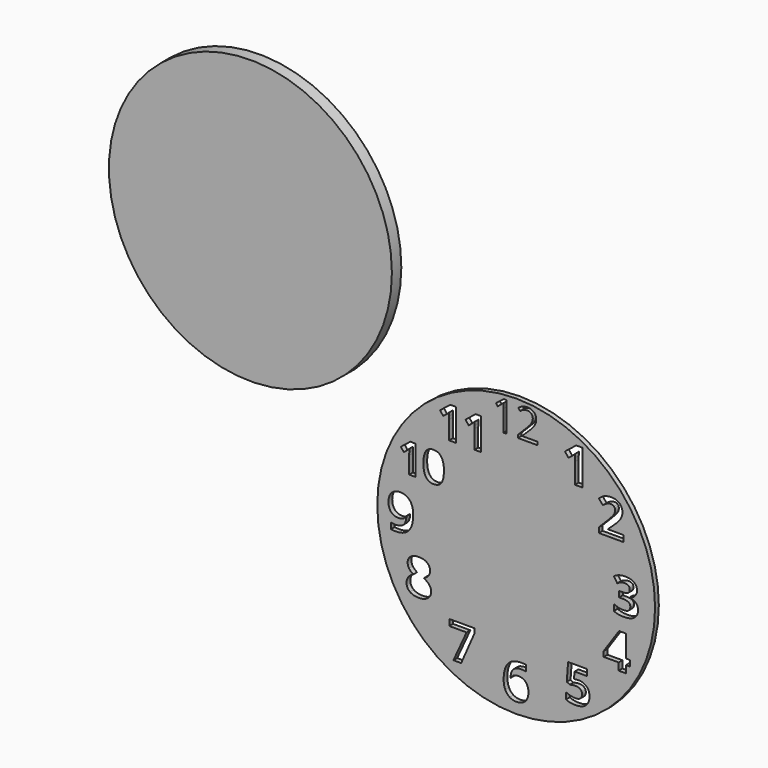
from build123d import *

# Parameters (mm, degrees)
F0_R     = 74.803
F1_DEPTH = 2.54
F2_R     = 76.2
F3_DEPTH = 6.35


with BuildPart() as f1:
    # F0 (on Front) → F1 (new body)
    with BuildSketch(Plane.XZ):
        Circle(F0_R)
        with BuildLine():
            add(Edge.make_bspline(
                [(-5.8910233776, -65.163271449), (-6.7364498098, -63.3029198865), (-6.7364498098, -60.6777571261)],
                knots=[0, 0, 0, 1, 1, 1], degree=2))
            add(Edge.make_bspline(
                [(-6.7364498098, -60.6777571261), (-6.7364498098, -55.0718977511), (-4.3655350963, -52.3330468396)],
                knots=[0, 0, 0, 1, 1, 1], degree=2))
            add(Edge.make_bspline(
                [(-4.3655350963, -52.3330468396), (-1.9946203828, -49.5941959282), (2.7348067006, -49.5941959282)],
                knots=[0, 0, 0, 1, 1, 1], degree=2))
            add(Edge.make_bspline(
                [(2.7348067006, -49.5941959282), (4.3471113881, -49.5941959282), (5.2648848256, -49.7884993136)],
                knots=[0, 0, 0, 1, 1, 1], degree=2))
            Line((5.2648848256, -49.7884993136), (5.2648848256, -52.9800357719))
            add(Edge.make_bspline(
                [(5.2648848256, -52.9800357719), (4.1156009714, -52.7195865532), (2.9911218047, -52.7195865532)],
                knots=[0, 0, 0, 1, 1, 1], degree=2))
            add(Edge.make_bspline(
                [(2.9911218047, -52.7195865532), (0.9364668568, -52.7195865532), (-0.3616451223, -53.3397037407)],
                knots=[0, 0, 0, 1, 1, 1], degree=2))
            add(Edge.make_bspline(
                [(-0.3616451223, -53.3397037407), (-1.6597571015, -53.9598209282), (-2.3046789765, -55.1752506157)],
                knots=[0, 0, 0, 1, 1, 1], degree=2))
            add(Edge.make_bspline(
                [(-2.3046789765, -55.1752506157), (-2.9496008515, -56.3906803032), (-3.0653560598, -58.6231021782)],
                knots=[0, 0, 0, 1, 1, 1], degree=2))
            Line((-3.0653560598, -58.6231021782), (-2.8999914765, -58.6231021782))
            add(Edge.make_bspline(
                [(-2.8999914765, -58.6231021782), (-1.6184159557, -56.4278873344), (1.1969160756, -56.4278873344)],
                knots=[0, 0, 0, 1, 1, 1], degree=2))
            add(Edge.make_bspline(
                [(1.1969160756, -56.4278873344), (3.7269942006, -56.4278873344), (5.161531961, -58.0174543917)],
                knots=[0, 0, 0, 1, 1, 1], degree=2))
            add(Edge.make_bspline(
                [(5.161531961, -58.0174543917), (6.5960697214, -59.607021449), (6.5960697214, -62.4099511365)],
                knots=[0, 0, 0, 1, 1, 1], degree=2))
            add(Edge.make_bspline(
                [(6.5960697214, -62.4099511365), (6.5960697214, -65.4319888969), (4.8907474558, -67.197255824)],
                knots=[0, 0, 0, 1, 1, 1], degree=2))
            add(Edge.make_bspline(
                [(4.8907474558, -67.197255824), (3.1854251902, -68.9625227511), (0.1633874297, -68.9625227511)],
                knots=[0, 0, 0, 1, 1, 1], degree=2))
            add(Edge.make_bspline(
                [(0.1633874297, -68.9625227511), (-1.9284745494, -68.9625227511), (-3.4870357473, -67.9930728813)],
                knots=[0, 0, 0, 1, 1, 1], degree=2))
            add(Edge.make_bspline(
                [(-3.4870357473, -67.9930728813), (-5.0455969453, -67.0236230115), (-5.8910233776, -65.163271449)],
                knots=[0, 0, 0, 1, 1, 1], degree=2))
        make_face(mode=Mode.SUBTRACT)
        Polygon((-29.6186864605, -60.3199785084), (-33.8065445334, -60.3199785084), (-26.7124039084, -44.8170488209), (-36.0265640646, -44.8170488209), (-36.0265640646, -41.4560136646), (-22.4749364605, -41.4560136646), (-22.4749364605, -43.9654212167), align=None, mode=Mode.SUBTRACT)
        with BuildLine():
            add(Edge.make_bspline(
                [(-56.7709693159, -18.6496255924), (-55.092518795, -17.3969888737), (-52.3929419721, -17.3969888737)],
                knots=[0, 0, 0, 1, 1, 1], degree=2))
            add(Edge.make_bspline(
                [(-52.3929419721, -17.3969888737), (-49.6768286909, -17.3969888737), (-48.0169816856, -18.6310220768)],
                knots=[0, 0, 0, 1, 1, 1], degree=2))
            add(Edge.make_bspline(
                [(-48.0169816856, -18.6310220768), (-46.3571346804, -19.8650552799), (-46.3571346804, -21.9569172591)],
                knots=[0, 0, 0, 1, 1, 1], degree=2))
            add(Edge.make_bspline(
                [(-46.3571346804, -21.9569172591), (-46.3571346804, -23.4038573633), (-47.1591529096, -24.5345377018)],
                knots=[0, 0, 0, 1, 1, 1], degree=2))
            add(Edge.make_bspline(
                [(-47.1591529096, -24.5345377018), (-47.9611711388, -25.6652180403), (-49.7429745242, -26.5540526758)],
                knots=[0, 0, 0, 1, 1, 1], degree=2))
            add(Edge.make_bspline(
                [(-49.7429745242, -26.5540526758), (-47.6263078575, -27.6909341862), (-46.7023332481, -28.9249673893)],
                knots=[0, 0, 0, 1, 1, 1], degree=2))
            add(Edge.make_bspline(
                [(-46.7023332481, -28.9249673893), (-45.7783586388, -30.1590005924), (-45.7783586388, -31.6348794987)],
                knots=[0, 0, 0, 1, 1, 1], degree=2))
            add(Edge.make_bspline(
                [(-45.7783586388, -31.6348794987), (-45.7783586388, -33.9582518945), (-47.5994361127, -35.3741861393)],
                knots=[0, 0, 0, 1, 1, 1], degree=2))
            add(Edge.make_bspline(
                [(-47.5994361127, -35.3741861393), (-49.4205135867, -36.7901203841), (-52.3929419721, -36.7901203841)],
                knots=[0, 0, 0, 1, 1, 1], degree=2))
            add(Edge.make_bspline(
                [(-52.3929419721, -36.7901203841), (-55.4935279096, -36.7901203841), (-57.2629289513, -35.471337832)],
                knots=[0, 0, 0, 1, 1, 1], degree=2))
            add(Edge.make_bspline(
                [(-57.2629289513, -35.471337832), (-59.0323299929, -34.1525552799), (-59.0323299929, -31.7382323633)],
                knots=[0, 0, 0, 1, 1, 1], degree=2))
            add(Edge.make_bspline(
                [(-59.0323299929, -31.7382323633), (-59.0323299929, -30.1217935612), (-58.1724341596, -28.8691568424)],
                knots=[0, 0, 0, 1, 1, 1], degree=2))
            add(Edge.make_bspline(
                [(-58.1724341596, -28.8691568424), (-57.3125383263, -27.6165201237), (-55.4149797325, -26.6574055403)],
                knots=[0, 0, 0, 1, 1, 1], degree=2))
            add(Edge.make_bspline(
                [(-55.4149797325, -26.6574055403), (-57.0314185346, -25.6404133528), (-57.7404191856, -24.4766600976)],
                knots=[0, 0, 0, 1, 1, 1], degree=2))
            add(Edge.make_bspline(
                [(-57.7404191856, -24.4766600976), (-58.4494198367, -23.3129068424), (-58.4494198367, -21.9321125716)],
                knots=[0, 0, 0, 1, 1, 1], degree=2))
            add(Edge.make_bspline(
                [(-58.4494198367, -21.9321125716), (-58.4494198367, -19.9022623112), (-56.7709693159, -18.6496255924)],
                knots=[0, 0, 0, 1, 1, 1], degree=2))
        make_face(mode=Mode.SUBTRACT)
        with BuildLine():
            add(Edge.make_bspline(
                [(31.5615842875, -48.0537042151), (32.3512001729, -47.8718031734), (33.5128863708, -47.8718031734)],
                knots=[0, 0, 0, 1, 1, 1], degree=2))
            add(Edge.make_bspline(
                [(33.5128863708, -47.8718031734), (36.249670225, -47.8718031734), (37.872310199, -49.4096937984)],
                knots=[0, 0, 0, 1, 1, 1], degree=2))
            add(Edge.make_bspline(
                [(37.872310199, -49.4096937984), (39.4949501729, -50.9475844234), (39.4949501729, -53.6223565588)],
                knots=[0, 0, 0, 1, 1, 1], degree=2))
            add(Edge.make_bspline(
                [(39.4949501729, -53.6223565588), (39.4949501729, -56.7849542151), (37.5436480896, -58.492343538)],
                knots=[0, 0, 0, 1, 1, 1], degree=2))
            add(Edge.make_bspline(
                [(37.5436480896, -58.492343538), (35.5923460062, -60.1997328609), (31.9625934021, -60.1997328609)],
                knots=[0, 0, 0, 1, 1, 1], degree=2))
            add(Edge.make_bspline(
                [(31.9625934021, -60.1997328609), (28.808263975, -60.1997328609), (26.87349835, -59.1786065588)],
                knots=[0, 0, 0, 1, 1, 1], degree=2))
            Line((26.87349835, -59.1786065588), (26.87349835, -55.7266208818))
            add(Edge.make_bspline(
                [(26.87349835, -55.7266208818), (27.8904905375, -56.2681898922), (29.2485471781, -56.6113214026)],
                knots=[0, 0, 0, 1, 1, 1], degree=2))
            add(Edge.make_bspline(
                [(29.2485471781, -56.6113214026), (30.6066038187, -56.954452913), (31.8178993917, -56.954452913)],
                knots=[0, 0, 0, 1, 1, 1], degree=2))
            add(Edge.make_bspline(
                [(31.8178993917, -56.954452913), (35.4765907979, -56.954452913), (35.4765907979, -53.9572198401)],
                knots=[0, 0, 0, 1, 1, 1], degree=2))
            add(Edge.make_bspline(
                [(35.4765907979, -53.9572198401), (35.4765907979, -51.100546663), (31.6897418396, -51.100546663)],
                knots=[0, 0, 0, 1, 1, 1], degree=2))
            add(Edge.make_bspline(
                [(31.6897418396, -51.100546663), (31.0076129333, -51.100546663), (30.1807900167, -51.2369724443)],
                knots=[0, 0, 0, 1, 1, 1], degree=2))
            add(Edge.make_bspline(
                [(30.1807900167, -51.2369724443), (29.3539671, -51.3733982255), (28.8372027771, -51.5304945797)],
                knots=[0, 0, 0, 1, 1, 1], degree=2))
            Line((28.8372027771, -51.5304945797), (27.2455686625, -50.6747328609))
            Line((27.2455686625, -50.6747328609), (27.9566363708, -41.0505141109))
            Line((27.9566363708, -41.0505141109), (38.2009723083, -41.0505141109))
            Line((38.2009723083, -41.0505141109), (38.2009723083, -44.4363539547))
            Line((38.2009723083, -44.4363539547), (31.4582314229, -44.4363539547))
            Line((31.4582314229, -44.4363539547), (31.1109657979, -48.1446547359))
            Line((31.1109657979, -48.1446547359), (31.5615842875, -48.0537042151))
        make_face(mode=Mode.SUBTRACT)
        Polygon((61.3668119221, -29.3046950509), (61.3668119221, -32.4052809884), (59.0930489012, -32.4052809884), (59.0930489012, -36.3202874988), (55.1904447346, -36.3202874988), (55.1904447346, -32.4052809884), (47.1289212971, -32.4052809884), (47.1289212971, -29.6271559884), (55.4136869221, -17.4315179676), (59.0930489012, -17.4315179676), (59.0930489012, -29.3046950509), align=None, mode=Mode.SUBTRACT)
        with BuildLine():
            add(Edge.make_bspline(
                [(63.3809398117, 8.2961543386), (65.0800609055, 7.1075963959), (65.0800609055, 4.9909297292)],
                knots=[0, 0, 0, 1, 1, 1], degree=2))
            add(Edge.make_bspline(
                [(65.0800609055, 4.9909297292), (65.0800609055, 3.2215286876), (64.0072581711, 1.9812943126)],
                knots=[0, 0, 0, 1, 1, 1], degree=2))
            add(Edge.make_bspline(
                [(64.0072581711, 1.9812943126), (62.9344554367, 0.7410599376), (60.9955556972, 0.2739049897)],
                knots=[0, 0, 0, 1, 1, 1], degree=2))
            Line((60.9955556972, 0.2739049897), (60.9955556972, 0.1994909272))
            add(Edge.make_bspline(
                [(60.9955556972, 0.1994909272), (63.2858551763, -0.0857629791), (64.459943718, -1.1916386301)],
                knots=[0, 0, 0, 1, 1, 1], degree=2))
            add(Edge.make_bspline(
                [(64.459943718, -1.1916386301), (65.6340322597, -2.2975142812), (65.6340322597, -4.1702681874)],
                knots=[0, 0, 0, 1, 1, 1], degree=2))
            add(Edge.make_bspline(
                [(65.6340322597, -4.1702681874), (65.6340322597, -6.8946496978), (63.6579254888, -8.4139368072)],
                knots=[0, 0, 0, 1, 1, 1], degree=2))
            add(Edge.make_bspline(
                [(63.6579254888, -8.4139368072), (61.681818718, -9.9332239166), (58.0148590826, -9.9332239166)],
                knots=[0, 0, 0, 1, 1, 1], degree=2))
            add(Edge.make_bspline(
                [(58.0148590826, -9.9332239166), (54.9390778326, -9.9332239166), (52.5619619472, -8.9120976145)],
                knots=[0, 0, 0, 1, 1, 1], degree=2))
            Line((52.5619619472, -8.9120976145), (52.5619619472, -5.513855427))
            add(Edge.make_bspline(
                [(52.5619619472, -5.513855427), (53.6575023117, -6.0678267812), (54.9762848638, -6.4171594635)],
                knots=[0, 0, 0, 1, 1, 1], degree=2))
            add(Edge.make_bspline(
                [(54.9762848638, -6.4171594635), (56.2950674159, -6.7664921458), (57.5849111659, -6.7664921458)],
                knots=[0, 0, 0, 1, 1, 1], degree=2))
            add(Edge.make_bspline(
                [(57.5849111659, -6.7664921458), (59.5651520513, -6.7664921458), (60.5077301763, -6.094698526)],
                knots=[0, 0, 0, 1, 1, 1], degree=2))
            add(Edge.make_bspline(
                [(60.5077301763, -6.094698526), (61.4503083013, -5.4229049062), (61.4503083013, -3.9346236562)],
                knots=[0, 0, 0, 1, 1, 1], degree=2))
            add(Edge.make_bspline(
                [(61.4503083013, -3.9346236562), (61.4503083013, -2.6075728749), (60.3651032232, -2.0515344635)],
                knots=[0, 0, 0, 1, 1, 1], degree=2))
            add(Edge.make_bspline(
                [(60.3651032232, -2.0515344635), (59.2798981451, -1.495496052), (56.9027822597, -1.495496052)],
                knots=[0, 0, 0, 1, 1, 1], degree=2))
            Line((56.9027822597, -1.495496052), (55.4682444992, -1.495496052))
            Line((55.4682444992, -1.495496052), (55.4682444992, 1.5678828542))
            Line((55.4682444992, 1.5678828542), (56.9275869472, 1.5678828542))
            add(Edge.make_bspline(
                [(56.9275869472, 1.5678828542), (59.1228017909, 1.5678828542), (60.1377269211, 2.1425247813)],
                knots=[0, 0, 0, 1, 1, 1], degree=2))
            add(Edge.make_bspline(
                [(60.1377269211, 2.1425247813), (61.1526520513, 2.7171667084), (61.1526520513, 4.110363323)],
                knots=[0, 0, 0, 1, 1, 1], degree=2))
            add(Edge.make_bspline(
                [(61.1526520513, 4.110363323), (61.1526520513, 6.2559687917), (58.4654775722, 6.2559687917)],
                knots=[0, 0, 0, 1, 1, 1], degree=2))
            add(Edge.make_bspline(
                [(58.4654775722, 6.2559687917), (57.5353017909, 6.2559687917), (56.572053093, 5.945910198)],
                knots=[0, 0, 0, 1, 1, 1], degree=2))
            add(Edge.make_bspline(
                [(56.572053093, 5.945910198), (55.6088043951, 5.6358516042), (54.4347158534, 4.8751745209)],
                knots=[0, 0, 0, 1, 1, 1], degree=2))
            Line((54.4347158534, 4.8751745209), (52.5867666347, 7.6243607188))
            add(Edge.make_bspline(
                [(52.5867666347, 7.6243607188), (55.1705882492, 9.4847122813), (58.7507314784, 9.4847122813)],
                knots=[0, 0, 0, 1, 1, 1], degree=2))
            add(Edge.make_bspline(
                [(58.7507314784, 9.4847122813), (61.681818718, 9.4847122813), (63.3809398117, 8.2961543386)],
                knots=[0, 0, 0, 1, 1, 1], degree=2))
        make_face(mode=Mode.SUBTRACT)
        with BuildLine():
            add(Edge.make_bspline(
                [(-56.2820821305, 6.2179759083), (-55.4428568701, 4.3514231739), (-55.4428568701, 1.7676015593)],
                knots=[0, 0, 0, 1, 1, 1], degree=2))
            add(Edge.make_bspline(
                [(-55.4428568701, 1.7676015593), (-55.4428568701, -3.8134531282), (-57.7931010108, -6.5667734407)],
                knots=[0, 0, 0, 1, 1, 1], degree=2))
            add(Edge.make_bspline(
                [(-57.7931010108, -6.5667734407), (-60.1433451514, -9.3200937532), (-64.909979266, -9.3200937532)],
                knots=[0, 0, 0, 1, 1, 1], degree=2))
            add(Edge.make_bspline(
                [(-64.909979266, -9.3200937532), (-66.5925639014, -9.3200937532), (-67.4565938493, -9.1381927115)],
                knots=[0, 0, 0, 1, 1, 1], degree=2))
            Line((-67.4565938493, -9.1381927115), (-67.4565938493, -5.9342539094))
            add(Edge.make_bspline(
                [(-67.4565938493, -5.9342539094), (-66.3693217139, -6.2029713574), (-65.1828308285, -6.2029713574)],
                knots=[0, 0, 0, 1, 1, 1], degree=2))
            add(Edge.make_bspline(
                [(-65.1828308285, -6.2029713574), (-63.1819193701, -6.2029713574), (-61.8900085628, -5.6159270865)],
                knots=[0, 0, 0, 1, 1, 1], degree=2))
            add(Edge.make_bspline(
                [(-61.8900085628, -5.6159270865), (-60.5980977555, -5.0288828157), (-59.9118347347, -3.7700449251)],
                knots=[0, 0, 0, 1, 1, 1], degree=2))
            add(Edge.make_bspline(
                [(-59.9118347347, -3.7700449251), (-59.2255717139, -2.5112070344), (-59.1222188493, -0.2994557324)],
                knots=[0, 0, 0, 1, 1, 1], degree=2))
            Line((-59.1222188493, -0.2994557324), (-59.2793152035, -0.2994557324))
            add(Edge.make_bspline(
                [(-59.2793152035, -0.2994557324), (-60.027589943, -1.5148854199), (-61.0094421566, -2.004777998)],
                knots=[0, 0, 0, 1, 1, 1], degree=2))
            add(Edge.make_bspline(
                [(-61.0094421566, -2.004777998), (-61.9912943701, -2.4946705761), (-63.4630391618, -2.4946705761)],
                knots=[0, 0, 0, 1, 1, 1], degree=2))
            add(Edge.make_bspline(
                [(-63.4630391618, -2.4946705761), (-65.931105568, -2.4946705761), (-67.3532409847, -0.913371748)],
                knots=[0, 0, 0, 1, 1, 1], degree=2))
            add(Edge.make_bspline(
                [(-67.3532409847, -0.913371748), (-68.7753764014, 0.6679270801), (-68.7753764014, 3.4832591114)],
                knots=[0, 0, 0, 1, 1, 1], degree=2))
            add(Edge.make_bspline(
                [(-68.7753764014, 3.4832591114), (-68.7753764014, 6.5218333301), (-67.0493835628, 8.2850331999)],
                knots=[0, 0, 0, 1, 1, 1], degree=2))
            add(Edge.make_bspline(
                [(-67.0493835628, 8.2850331999), (-65.3233907243, 10.0482330697), (-62.3550964535, 10.0482330697)],
                knots=[0, 0, 0, 1, 1, 1], degree=2))
            add(Edge.make_bspline(
                [(-62.3550964535, 10.0482330697), (-60.2591003597, 10.0482330697), (-58.6902038753, 9.0663808562)],
                knots=[0, 0, 0, 1, 1, 1], degree=2))
            add(Edge.make_bspline(
                [(-58.6902038753, 9.0663808562), (-57.121307391, 8.0845286426), (-56.2820821305, 6.2179759083)],
                knots=[0, 0, 0, 1, 1, 1], degree=2))
        make_face(mode=Mode.SUBTRACT)
        with BuildLine():
            Line((-54.2624322207, 35.7546802365), (-54.2624322207, 19.9230597782))
            Line((-54.2624322207, 19.9230597782), (-57.6096297175, 19.9230597782))
            Line((-57.6096297175, 19.9230597782), (-57.6096297175, 29.0845402973))
            Line((-57.6096297175, 29.0845402973), (-57.5749796399, 30.5883536654))
            Line((-57.5749796399, 30.5883536654), (-57.5230045234, 32.2342323517))
            add(Edge.make_bspline(
                [(-57.5230045234, 32.2342323517), (-58.354606386, 31.4026304891), (-58.6803171155, 31.1427549071)],
                knots=[0, 0, 0, 1, 1, 1], degree=2))
            Line((-58.6803171155, 31.1427549071), (-60.4994461898, 29.6805216321))
            Line((-60.4994461898, 29.6805216321), (-62.1141398063, 31.693691141))
            Line((-62.1141398063, 31.693691141), (-57.0136483826, 35.7546802365))
            Line((-57.0136483826, 35.7546802365), (-54.2624322207, 35.7546802365))
        make_face(mode=Mode.SUBTRACT)
        with BuildLine():
            add(Edge.make_bspline(
                [(-40.3001834493, 33.9251561389), (-38.8985878102, 31.8461514825), (-38.8985878102, 27.8371375035)],
                knots=[0, 0, 0, 1, 1, 1], degree=2))
            add(Edge.make_bspline(
                [(-38.8985878102, 27.8371375035), (-38.8985878102, 23.6929882218), (-40.2568708523, 21.6988762555)],
                knots=[0, 0, 0, 1, 1, 1], degree=2))
            add(Edge.make_bspline(
                [(-40.2568708523, 21.6988762555), (-41.6151538945, 19.7047642893), (-44.4426002271, 19.7047642893)],
                knots=[0, 0, 0, 1, 1, 1], degree=2))
            add(Edge.make_bspline(
                [(-44.4426002271, 19.7047642893), (-47.1834213658, 19.7047642893), (-48.5746219817, 21.7629788991)],
                knots=[0, 0, 0, 1, 1, 1], degree=2))
            add(Edge.make_bspline(
                [(-48.5746219817, 21.7629788991), (-49.9658225976, 23.8211935089), (-49.9658225976, 27.8371375035)],
                knots=[0, 0, 0, 1, 1, 1], degree=2))
            add(Edge.make_bspline(
                [(-49.9658225976, 27.8371375035), (-49.9658225976, 32.0297968938), (-48.6110045632, 34.0169788445)],
                knots=[0, 0, 0, 1, 1, 1], degree=2))
            add(Edge.make_bspline(
                [(-48.6110045632, 34.0169788445), (-47.2561865288, 36.0041607952), (-44.4426002271, 36.0041607952)],
                knots=[0, 0, 0, 1, 1, 1], degree=2))
            add(Edge.make_bspline(
                [(-44.4426002271, 36.0041607952), (-41.7017790885, 36.0041607952), (-40.3001834493, 33.9251561389)],
                knots=[0, 0, 0, 1, 1, 1], degree=2))
        make_face(mode=Mode.SUBTRACT)
        with BuildLine():
            Line((-32.5175068608, 60.2672196379), (-32.5175068608, 43.1619559062))
            Line((-32.5175068608, 43.1619559062), (-36.1339841566, 43.1619559062))
            Line((-36.1339841566, 43.1619559062), (-36.1339841566, 53.0604714034))
            Line((-36.1339841566, 53.0604714034), (-36.0965465035, 54.6852655508))
            Line((-36.0965465035, 54.6852655508), (-36.0403900237, 56.4635540762))
            add(Edge.make_bspline(
                [(-36.0403900237, 56.4635540762), (-36.9388936997, 55.5650504002), (-37.2908076395, 55.2842680015)],
                knots=[0, 0, 0, 1, 1, 1], degree=2))
            Line((-37.2908076395, 55.2842680015), (-39.2562844307, 53.7043990378))
            Line((-39.2562844307, 53.7043990378), (-41.0008790683, 55.8795266868))
            Line((-41.0008790683, 55.8795266868), (-35.4900565222, 60.2672196379))
            Line((-35.4900565222, 60.2672196379), (-32.5175068608, 60.2672196379))
        make_face(mode=Mode.SUBTRACT)
        with BuildLine():
            Line((-18.8415321591, 60.2672196379), (-18.8415321591, 43.1619559062))
            Line((-18.8415321591, 43.1619559062), (-22.4580094549, 43.1619559062))
            Line((-22.4580094549, 43.1619559062), (-22.4580094549, 53.0604714034))
            Line((-22.4580094549, 53.0604714034), (-22.4205718018, 54.6852655508))
            Line((-22.4205718018, 54.6852655508), (-22.364415322, 56.4635540762))
            add(Edge.make_bspline(
                [(-22.364415322, 56.4635540762), (-23.262918998, 55.5650504002), (-23.6148329378, 55.2842680015)],
                knots=[0, 0, 0, 1, 1, 1], degree=2))
            Line((-23.6148329378, 55.2842680015), (-25.580309729, 53.7043990378))
            Line((-25.580309729, 53.7043990378), (-27.3249043666, 55.8795266868))
            Line((-27.3249043666, 55.8795266868), (-21.8140818205, 60.2672196379))
            Line((-21.8140818205, 60.2672196379), (-18.8415321591, 60.2672196379))
        make_face(mode=Mode.SUBTRACT)
        with BuildLine():
            Line((-5.1132792741, 72.343459646), (-5.1132792741, 56.3526499244))
            Line((-5.1132792741, 56.3526499244), (-6.8842028283, 56.3526499244))
            Line((-6.8842028283, 56.3526499244), (-6.8842028283, 67.7481580123))
            add(Edge.make_bspline(
                [(-6.8842028283, 67.7481580123), (-6.8842028283, 69.1725965233), (-6.7967066053, 70.4395418328)],
                knots=[0, 0, 0, 1, 1, 1], degree=2))
            add(Edge.make_bspline(
                [(-6.7967066053, 70.4395418328), (-7.0241967851, 70.208551804), (-7.3094344722, 69.9583126061)],
                knots=[0, 0, 0, 1, 1, 1], degree=2))
            add(Edge.make_bspline(
                [(-7.3094344722, 69.9583126061), (-7.5946721593, 69.7080734082), (-9.9115721453, 67.8251546886)],
                knots=[0, 0, 0, 1, 1, 1], degree=2))
            Line((-9.9115721453, 67.8251546886), (-10.8740305986, 69.0711009046))
            Line((-10.8740305986, 69.0711009046), (-6.6427132527, 72.343459646))
            Line((-6.6427132527, 72.343459646), (-5.1132792741, 72.343459646))
        make_face(mode=Mode.SUBTRACT)
        with BuildLine():
            Line((57.7630547736, 28.8359935135), (57.7630547736, 25.4749583572))
            Line((57.7630547736, 25.4749583572), (44.5586927944, 25.4749583572))
            Line((44.5586927944, 25.4749583572), (44.5586927944, 28.2530833572))
            Line((44.5586927944, 28.2530833572), (49.3005222215, 33.0445221593))
            add(Edge.make_bspline(
                [(49.3005222215, 33.0445221593), (51.408920659, 35.2025299718), (52.053842534, 36.0355540603)],
                knots=[0, 0, 0, 1, 1, 1], degree=2))
            add(Edge.make_bspline(
                [(52.053842534, 36.0355540603), (52.698764409, 36.8685781489), (52.9840183153, 37.5796458572)],
                knots=[0, 0, 0, 1, 1, 1], degree=2))
            add(Edge.make_bspline(
                [(52.9840183153, 37.5796458572), (53.2692722215, 38.2907135655), (53.2692722215, 39.0513906489)],
                knots=[0, 0, 0, 1, 1, 1], degree=2))
            add(Edge.make_bspline(
                [(53.2692722215, 39.0513906489), (53.2692722215, 40.1882721593), (52.6408868048, 40.7443105708)],
                knots=[0, 0, 0, 1, 1, 1], degree=2))
            add(Edge.make_bspline(
                [(52.6408868048, 40.7443105708), (52.0125013882, 41.3003489822), (50.9665703986, 41.3003489822)],
                knots=[0, 0, 0, 1, 1, 1], degree=2))
            add(Edge.make_bspline(
                [(50.9665703986, 41.3003489822), (49.871030034, 41.3003489822), (48.8375013882, 40.795987003)],
                knots=[0, 0, 0, 1, 1, 1], degree=2))
            add(Edge.make_bspline(
                [(48.8375013882, 40.795987003), (47.8039727423, 40.2916250239), (46.6794935757, 39.3614492426)],
                knots=[0, 0, 0, 1, 1, 1], degree=2))
            Line((46.6794935757, 39.3614492426), (44.5090834194, 41.9328685135))
            add(Edge.make_bspline(
                [(44.5090834194, 41.9328685135), (45.902280034, 43.1234935135), (46.8200534715, 43.6133860916)],
                knots=[0, 0, 0, 1, 1, 1], degree=2))
            add(Edge.make_bspline(
                [(46.8200534715, 43.6133860916), (47.737826909, 44.1032786697), (48.8230319871, 44.367862003)],
                knots=[0, 0, 0, 1, 1, 1], degree=2))
            add(Edge.make_bspline(
                [(48.8230319871, 44.367862003), (49.9082370653, 44.6324453364), (51.2518243048, 44.6324453364)],
                knots=[0, 0, 0, 1, 1, 1], degree=2))
            add(Edge.make_bspline(
                [(51.2518243048, 44.6324453364), (53.0212253465, 44.6324453364), (54.3772149298, 43.9875234614)],
                knots=[0, 0, 0, 1, 1, 1], degree=2))
            add(Edge.make_bspline(
                [(54.3772149298, 43.9875234614), (55.7332045132, 43.3426015864), (56.48354631, 42.1788483312)],
                knots=[0, 0, 0, 1, 1, 1], degree=2))
            add(Edge.make_bspline(
                [(56.48354631, 42.1788483312), (57.2338881069, 41.015095076), (57.2338881069, 39.5185455968)],
                knots=[0, 0, 0, 1, 1, 1], degree=2))
            add(Edge.make_bspline(
                [(57.2338881069, 39.5185455968), (57.2338881069, 38.2121653885), (56.7750013882, 37.0690827062)],
                knots=[0, 0, 0, 1, 1, 1], degree=2))
            add(Edge.make_bspline(
                [(56.7750013882, 37.0690827062), (56.3161146694, 35.9260000239), (55.3528659715, 34.7250397374)],
                knots=[0, 0, 0, 1, 1, 1], degree=2))
            add(Edge.make_bspline(
                [(55.3528659715, 34.7250397374), (54.3896172736, 33.524079451), (51.9628920132, 31.2999258051)],
                knots=[0, 0, 0, 1, 1, 1], degree=2))
            Line((51.9628920132, 31.2999258051), (49.5320326382, 29.0137604405))
            Line((49.5320326382, 29.0137604405), (49.5320326382, 28.8359935135))
            Line((49.5320326382, 28.8359935135), (57.7630547736, 28.8359935135))
        make_face(mode=Mode.SUBTRACT)
        with BuildLine():
            Line((35.6219537188, 63.0451516271), (35.6219537188, 44.1563820958))
            Line((35.6219537188, 44.1563820958), (31.6283990313, 44.1563820958))
            Line((31.6283990313, 44.1563820958), (31.6283990313, 55.0869810541))
            Line((31.6283990313, 55.0869810541), (31.6697401772, 56.8811867833))
            Line((31.6697401772, 56.8811867833), (31.7317518959, 58.8448912104))
            add(Edge.make_bspline(
                [(31.7317518959, 58.8448912104), (30.7395643959, 57.8527037104), (30.3509576251, 57.5426451166)],
                knots=[0, 0, 0, 1, 1, 1], degree=2))
            Line((30.3509576251, 57.5426451166), (28.1805474688, 55.7980487625))
            Line((28.1805474688, 55.7980487625), (26.254050073, 58.1999693354))
            Line((26.254050073, 58.1999693354), (32.3394667397, 63.0451516271))
            Line((32.3394667397, 63.0451516271), (35.6219537188, 63.0451516271))
        make_face(mode=Mode.SUBTRACT)
        with BuildLine():
            Line((11.479504462, 58.0360772556), (11.479504462, 56.3526499244))
            Line((11.479504462, 56.3526499244), (0.9694581512, 56.3526499244))
            Line((0.9694581512, 56.3526499244), (0.9694581512, 57.9170823922))
            Line((0.9694581512, 57.9170823922), (5.1797764036, 62.1483997381))
            add(Edge.make_bspline(
                [(5.1797764036, 62.1483997381), (7.1046933103, 64.0978155873), (7.7171668716, 64.9290297061)],
                knots=[0, 0, 0, 1, 1, 1], degree=2))
            add(Edge.make_bspline(
                [(7.7171668716, 64.9290297061), (8.3296404328, 65.760243825), (8.6358772134, 66.5477098323)],
                knots=[0, 0, 0, 1, 1, 1], degree=2))
            add(Edge.make_bspline(
                [(8.6358772134, 66.5477098323), (8.942113994, 67.3351758396), (8.942113994, 68.2416367102)],
                knots=[0, 0, 0, 1, 1, 1], degree=2))
            add(Edge.make_bspline(
                [(8.942113994, 68.2416367102), (8.942113994, 69.5225814154), (8.1651475335, 70.2715490846)],
                knots=[0, 0, 0, 1, 1, 1], degree=2))
            add(Edge.make_bspline(
                [(8.1651475335, 70.2715490846), (7.388181073, 71.0205167537), (6.009240598, 71.0205167537)],
                knots=[0, 0, 0, 1, 1, 1], degree=2))
            add(Edge.make_bspline(
                [(6.009240598, 71.0205167537), (5.0152835043, 71.0205167537), (4.1228220293, 70.6915309551)],
                knots=[0, 0, 0, 1, 1, 1], degree=2))
            add(Edge.make_bspline(
                [(4.1228220293, 70.6915309551), (3.2303605544, 70.3625451565), (2.1384076909, 69.498082473)],
                knots=[0, 0, 0, 1, 1, 1], degree=2))
            Line((2.1384076909, 69.498082473), (1.1759492376, 70.7335291422))
            add(Edge.make_bspline(
                [(1.1759492376, 70.7335291422), (3.3843539069, 72.5709498259), (5.9882415044, 72.5709498259)],
                knots=[0, 0, 0, 1, 1, 1], degree=2))
            add(Edge.make_bspline(
                [(5.9882415044, 72.5709498259), (8.2421442098, 72.5709498259), (9.5213389905, 71.4177496063)],
                knots=[0, 0, 0, 1, 1, 1], degree=2))
            add(Edge.make_bspline(
                [(9.5213389905, 71.4177496063), (10.8005337713, 70.2645493867), (10.8005337713, 68.3186333865)],
                knots=[0, 0, 0, 1, 1, 1], degree=2))
            add(Edge.make_bspline(
                [(10.8005337713, 68.3186333865), (10.8005337713, 66.7961991057), (9.9465706345, 65.3087633141)],
                knots=[0, 0, 0, 1, 1, 1], degree=2))
            add(Edge.make_bspline(
                [(9.9465706345, 65.3087633141), (9.0926074977, 63.8213275225), (6.7547084182, 61.5464257237)],
                knots=[0, 0, 0, 1, 1, 1], degree=2))
            Line((6.7547084182, 61.5464257237), (3.2548594969, 58.1235734786))
            Line((3.2548594969, 58.1235734786), (3.2548594969, 58.0360772556))
            Line((3.2548594969, 58.0360772556), (11.479504462, 58.0360772556))
        make_face(mode=Mode.SUBTRACT)
    extrude(amount=F1_DEPTH)


with BuildPart() as f3:
    # F2 (on Front) → F3 (new body)
    with BuildSketch(Plane.XZ):
        with Locations((-140.0821234587, 115.1459841133)):
            Circle(F2_R)
    extrude(amount=F3_DEPTH)


solid = Compound([f1.part, f3.part])
